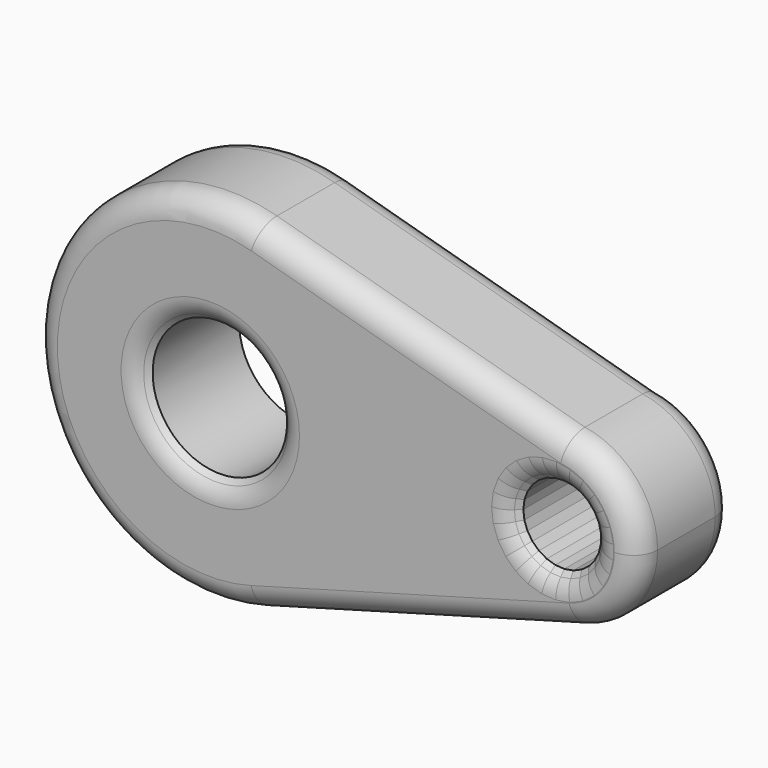
from build123d import *

# Parameters (mm, degrees)
F0_R     = 14.20941
F1_DEPTH = 25.4
F2_SIZE  = 2.54
F3_R     = 5.08


with BuildPart() as f1:
    # F0 (on Front) → F1 (new body)
    with BuildSketch(Plane.XZ):
        with BuildLine():
            ThreePointArc((9.975388, -36.042502), (29.762598, -22.644161), (37.397464, 0))
            ThreePointArc((37.397464, 0), (29.783212, 22.617041), (10.041033, 36.024269))
            ThreePointArc((10.041033, 36.024269), (-37.397448, 0.034065), (9.975388, -36.042502))
        make_face()
        Circle(F0_R, mode=Mode.SUBTRACT)
        with BuildLine():
            ThreePointArc((10.041033, 36.024269), (29.783212, 22.617041), (37.397464, 0))
            ThreePointArc((37.397464, 0), (29.762598, -22.644161), (9.975388, -36.042502))
            Line((9.975388, -36.042502), (77.196848, -17.437796))
            ThreePointArc((77.196848, -17.437796), (54.30811, -1.055577), (75.132796, 17.881262))
            Line((75.132796, 17.881262), (10.041033, 36.024269))
        make_face()
        with BuildLine():
            ThreePointArc((90.463979, 0), (86.106461, 11.776934), (75.132796, 17.881262))
            ThreePointArc((75.132796, 17.881262), (54.30811, -1.055577), (77.196848, -17.437796))
            ThreePointArc((77.196848, -17.437796), (86.770139, -10.955518), (90.463979, 0))
        make_face()
        Polygon((66.091331, 5.316778), (67.486724, 6.621571), (69.14541, 7.569393), (70.977968, 8.109147), (72.885606, 8.211735), (74.765481, 7.871627), (76.51625, 7.107156), (78.043527, 5.959538), (79.264978, 4.490639), (80.114752, 2.779648), (80.54704, 0.918806), (80.538535, -0.991569), (80.089696, -2.848488), (79.224722, -4.551845), (77.990241, -6.00981), (76.452806, -7.143785), (74.695301, -7.892637), (72.812471, -8.215995), (70.905823, -8.096426), (69.078143, -7.540377), (67.427962, -6.577824), (66.044242, -5.260659), (65.001579, -3.65989), (64.356184, -1.861816), (64.14285, 0.036629), (64.373079, 1.9331), (65.034457, 3.725356), align=None, mode=Mode.SUBTRACT)
    extrude(amount=F1_DEPTH)

    # F2
    f2_edges = [f1.edges().sort_by_distance(p)[0] for p in [
        (-14.20941, -25.4, 0),
        (75.640865, -25.4, 7.489391),
        (78.607481, -25.4, -5.280828),
        (65.52291, -25.4, -4.460275),
        (77.279888, -25.4, 6.533347),
        (77.221524, -25.4, -6.576798),
        (64.678881, -25.4, -2.760853),
        (78.654252, -25.4, 5.225088),
        (75.574053, -25.4, -7.518211),
        (64.249517, -25.4, -0.912594),
        (79.689865, -25.4, 3.635143),
        (73.753886, -25.4, -8.054316),
        (64.257964, -25.4, 0.984864),
        (68.316067, -25.4, 7.095482),
        (80.330896, -25.4, 1.849227),
        (71.859147, -25.4, -8.15621),
        (64.703768, -25.4, 2.829228),
        (70.061689, -25.4, 7.83927),
        (80.542787, -25.4, -0.036381),
        (69.991983, -25.4, -7.818401),
        (65.562894, -25.4, 4.521067),
        (71.931787, -25.4, 8.160441),
        (80.314116, -25.4, -1.920029),
        (68.253052, -25.4, -7.0591),
        (66.789027, -25.4, 5.969174),
        (73.825543, -25.4, 8.041681),
        (66.736102, -25.4, -5.919241),
        (79.657209, -25.4, -3.700167),
    ]]
    chamfer(f2_edges, length=F2_SIZE)

    # F3
    f3_edges = [f1.edges().sort_by_distance(p)[0] for p in [
        (-16.74941, -25.4, 0),
        (-37.397448, -25.4, 0.034065),
        (43.586118, -25.4, -26.740149),
        (90.433161, -25.4, 1.055577),
        (42.586915, -25.4, 26.952766),
        (76.657281, -25.4, 9.817159),
        (74.277741, -25.4, 10.541104),
        (78.805726, -25.4, 8.563967),
        (71.795389, -25.4, 10.696776),
        (80.607254, -25.4, 6.84909),
        (69.344048, -25.4, 10.275782),
        (81.964744, -25.4, 4.764977),
        (67.055872, -25.4, 9.300818),
        (82.805013, -25.4, 2.423983),
        (65.054216, -25.4, 7.824445),
        (83.082762, -25.4, -0.047689),
        (63.44699, -25.4, 5.926253),
        (82.783017, -25.4, -2.51679),
        (62.32084, -25.4, 3.708576),
        (81.921939, -25.4, -4.85021),
        (61.736477, -25.4, 1.290969),
        (80.545947, -25.4, -6.922154),
        (61.725404, -25.4, -1.196235),
        (78.729221, -25.4, -8.620923),
        (62.288218, -25.4, -3.61895),
        (76.569703, -25.4, -9.854936),
        (63.394579, -25.4, -5.846566),
        (74.183812, -25.4, -10.557666),
        (64.98484, -25.4, -7.758992),
        (71.700172, -25.4, -10.691231),
        (66.973272, -25.4, -9.253129),
        (69.252677, -25.4, -10.248428),
        (43.586118, 0, -26.740149),
    ]]
    fillet(f3_edges, radius=F3_R)


solid = f1.part
